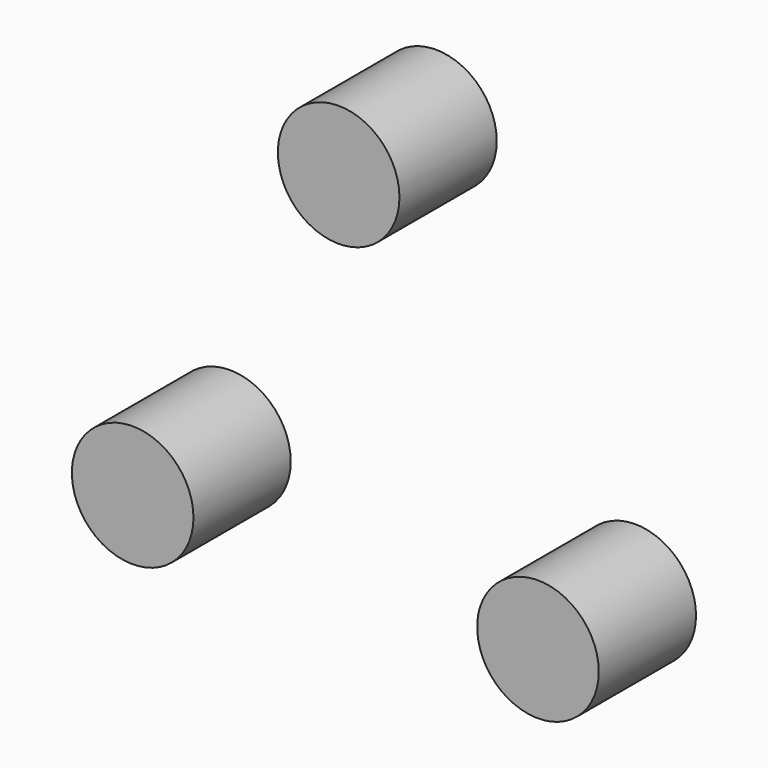
from build123d import *

# Parameters (mm, degrees)
F0_R     = 19.05
F1_DEPTH = 38.1


with BuildPart() as f1:
    # F0 (on Front) → F1 (new body)
    with BuildSketch(Plane.XZ):
        with Locations((0, 76.302059)):
            Circle(F0_R)
        with Locations((-64.544835, -33.073278)):
            Circle(F0_R)
        with Locations((62.449403, -34.283075)):
            Circle(F0_R)
    extrude(amount=F1_DEPTH)


solid = f1.part
